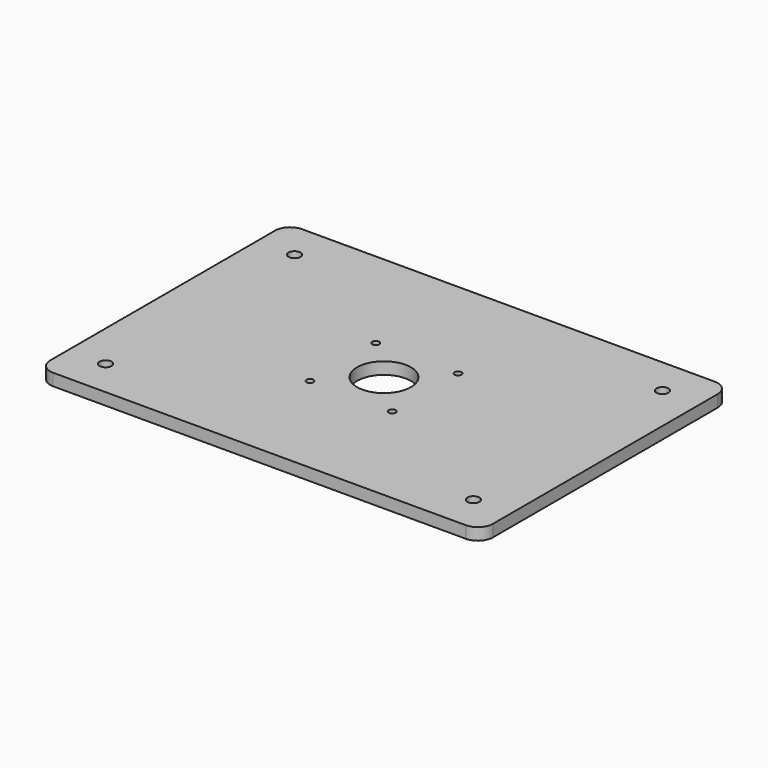
from build123d import *

# Parameters (mm, degrees)
F0_W     = 296
F0_H     = 208
F0_R     = 4
F0_R_2   = 2.35
F0_R_3   = 18
F1_DEPTH = 8
F2_R     = 10


with BuildPart() as f1:
    # F0 (on Top) → F1 (new body)
    with BuildSketch(Plane.XY):
        Rectangle(F0_W, F0_H)
        with Locations((-123, -79)):
            Circle(F0_R, mode=Mode.SUBTRACT)
        with Locations((-27.5, -27.5)):
            Circle(F0_R_2, mode=Mode.SUBTRACT)
        with Locations((123, -79)):
            Circle(F0_R, mode=Mode.SUBTRACT)
        with Locations((27.5, -27.5)):
            Circle(F0_R_2, mode=Mode.SUBTRACT)
        with Locations((-27.5, 27.5)):
            Circle(F0_R_2, mode=Mode.SUBTRACT)
        with Locations((-123, 79)):
            Circle(F0_R, mode=Mode.SUBTRACT)
        Circle(F0_R_3, mode=Mode.SUBTRACT)
        with Locations((27.5, 27.5)):
            Circle(F0_R_2, mode=Mode.SUBTRACT)
        with Locations((123, 79)):
            Circle(F0_R, mode=Mode.SUBTRACT)
    extrude(amount=F1_DEPTH)

    # F2
    f2_edges = [f1.edges().sort_by_distance(p)[0] for p in [
        (-148, 104, 4),
        (-148, -104, 4),
        (148, -104, 4),
        (148, 104, 4),
    ]]
    fillet(f2_edges, radius=F2_R)


solid = f1.part
